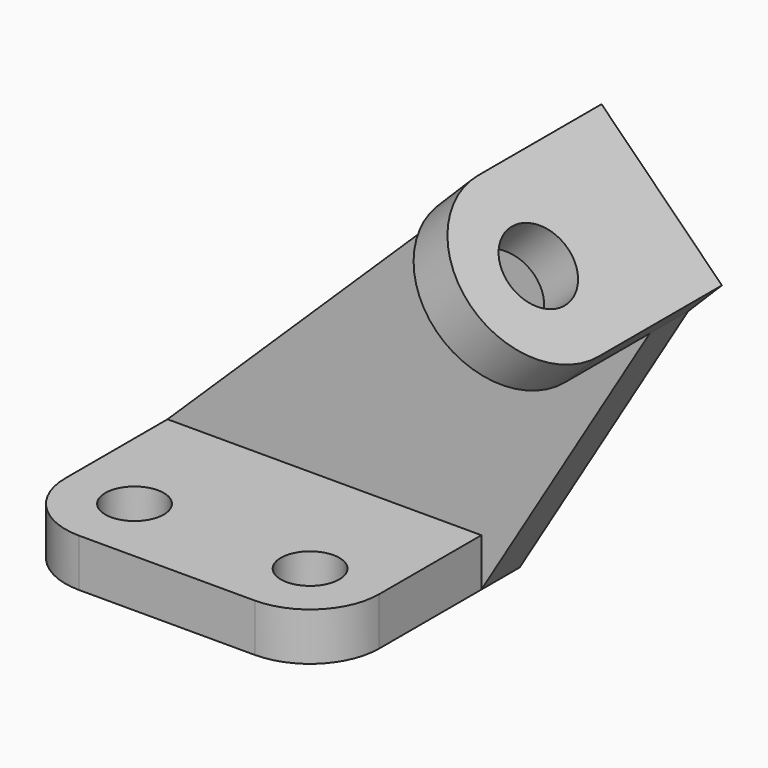
from build123d import *

# Parameters (mm, degrees)
F0_R     = 5.5
F1_DEPTH = 9
F2_W     = 59
F2_H     = 9
F3_DEPTH = 9
F4_R     = 7
F4_W     = 9
F4_H     = 32
F5_DEPTH = 9


with BuildPart() as f1:
    # F0 (on Top) → F1 (new body)
    with BuildSketch(Plane.XY):
        with BuildLine():
            Line((59, 0), (0, 0))
            Line((0, 0), (0, -24))
            ThreePointArc((0, -24), (3.807612, -33.192388), (13, -37))
            Line((13, -37), (46, -37))
            ThreePointArc((46, -37), (55.192388, -33.192388), (59, -24))
            Line((59, -24), (59, 0))
        make_face()
        with Locations((13, -24)):
            Circle(F0_R, mode=Mode.SUBTRACT)
        with Locations((46, -24)):
            Circle(F0_R, mode=Mode.SUBTRACT)
    extrude(amount=F1_DEPTH)

    # F2 (on face) → F3 (join)
    with BuildSketch(Plane(origin=(0, 0, 0), x_dir=(-1, 0, 0), z_dir=(0, 1, 0))):
        Polygon((-90.653089, 52.686292), (-59, 0), (-59, 9), (0, 9), (-68.025672, 75.313708), align=None)
        with Locations((-29.5, 4.5)):
            Rectangle(F2_W, F2_H)
    extrude(amount=F3_DEPTH)

    # F4 (on face) → F5 (join)
    with BuildSketch(Plane(origin=(71.66969, 0, 71.66969), x_dir=(0, 1, 0), z_dir=(0.707107, 0, 0.707107))):
        with BuildLine():
            Line((0, -26.84658), (0, 5.15342))
            Line((0, 5.15342), (-20, 5.15342))
            ThreePointArc((-20, 5.15342), (-36, -10.84658), (-20, -26.84658))
            Line((-20, -26.84658), (0, -26.84658))
        make_face()
        with Locations((-20, -10.84658)):
            Circle(F4_R, mode=Mode.SUBTRACT)
        with Locations((4.5, -10.84658)):
            Rectangle(F4_W, F4_H)
    extrude(amount=F5_DEPTH)


solid = f1.part
